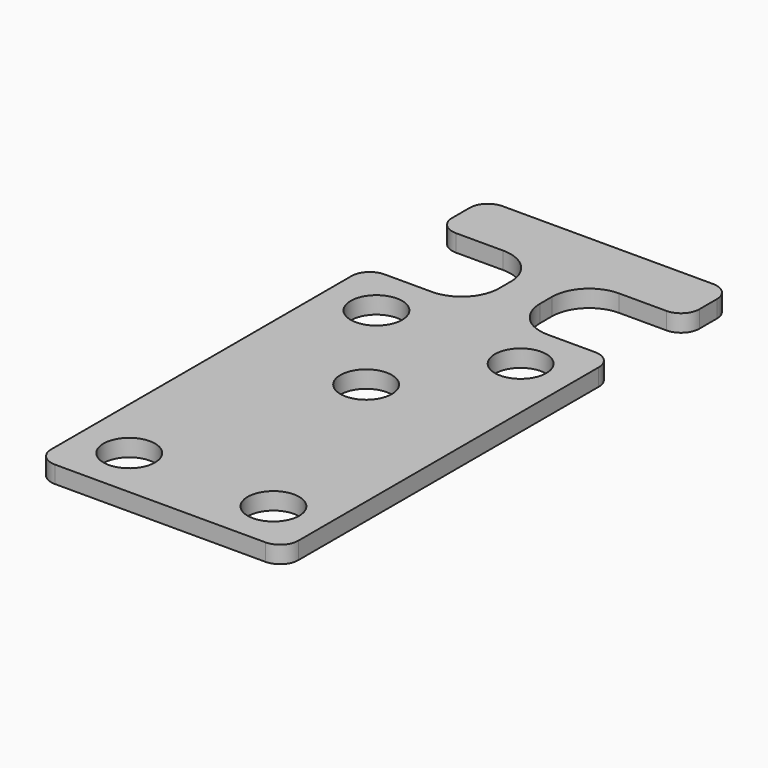
from build123d import *

# Parameters (mm, degrees)
F0_W     = 72
F0_H     = 163
F1_DEPTH = 5
F2_W     = 30
F2_H     = 26
F2_R     = 7.5
F3_DEPTH = 25
F4_R     = 10.8639610307
F5_R     = 5.3112698372


with BuildPart() as f1:
    # F0 (on Top) → F1 (new body)
    with BuildSketch(Plane.XY):
        with Locations((-8.3418504, 45.0741375387)):
            Rectangle(F0_W, F0_H)
    extrude(amount=-F1_DEPTH)

    # F2 (on face) → F3 (cut)
    with BuildSketch(Plane.XY):
        with Locations((12.6581496, 96.5741375387)):
            Rectangle(F2_W, F2_H)
        with Locations((-29.3418504, 96.5741375387)):
            Rectangle(F2_W, F2_H)
        with Locations((12.6581496, 68.5741375387)):
            Circle(F2_R)
        with Locations((-29.3418504, 68.5741375387)):
            Circle(F2_R)
        with Locations((-8.3418504, 38.5741375387)):
            Circle(F2_R)
        with Locations((-29.3418504, -21.4258624613)):
            Circle(F2_R)
        with Locations((12.6581496, -21.4258624613)):
            Circle(F2_R)
    extrude(amount=-F3_DEPTH, mode=Mode.SUBTRACT)

    # F4
    f4_edges = [f1.edges().sort_by_distance(p)[0] for p in [
        (-2.34185, 109.574138, -2.5),
        (-2.34185, 83.574138, -2.5),
        (-14.34185, 83.574138, -2.5),
        (-14.34185, 109.574138, -2.5),
    ]]
    fillet(f4_edges, radius=F4_R)

    # F5
    f5_edges = [f1.edges().sort_by_distance(p)[0] for p in [
        (27.65815, 126.574138, -2.5),
        (-44.34185, 126.574138, -2.5),
        (-44.34185, 109.574138, -2.5),
        (-44.34185, 83.574138, -2.5),
        (27.65815, 109.574138, -2.5),
        (27.65815, 83.574138, -2.5),
        (-44.34185, -36.425862, -2.5),
        (27.65815, -36.425862, -2.5),
    ]]
    fillet(f5_edges, radius=F5_R)


solid = f1.part
